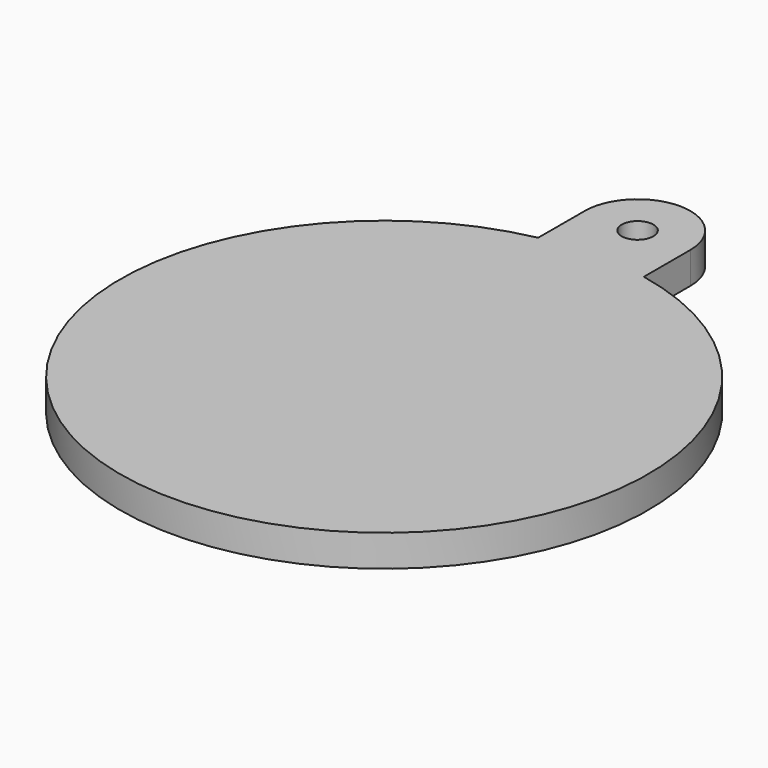
from build123d import *

# Parameters (mm, degrees)
F0_R     = 1.5
F1_DEPTH = 3


with BuildPart() as f1:
    # F0 (on Top) → F1 (new body)
    with BuildSketch(Plane.XY):
        with BuildLine():
            Line((-4.999992, 30.008767), (-5.009664, 24.492923))
            ThreePointArc((-5.009664, 24.492923), (0.004932, -25), (5, 24.494897))
            Line((5, 24.494897), (5, 30))
            ThreePointArc((5, 30), (0.004383, 34.999998), (-4.999992, 30.008767))
        make_face()
        with Locations((0, 30)):
            Circle(F0_R, mode=Mode.SUBTRACT)
    extrude(amount=F1_DEPTH)


solid = f1.part
